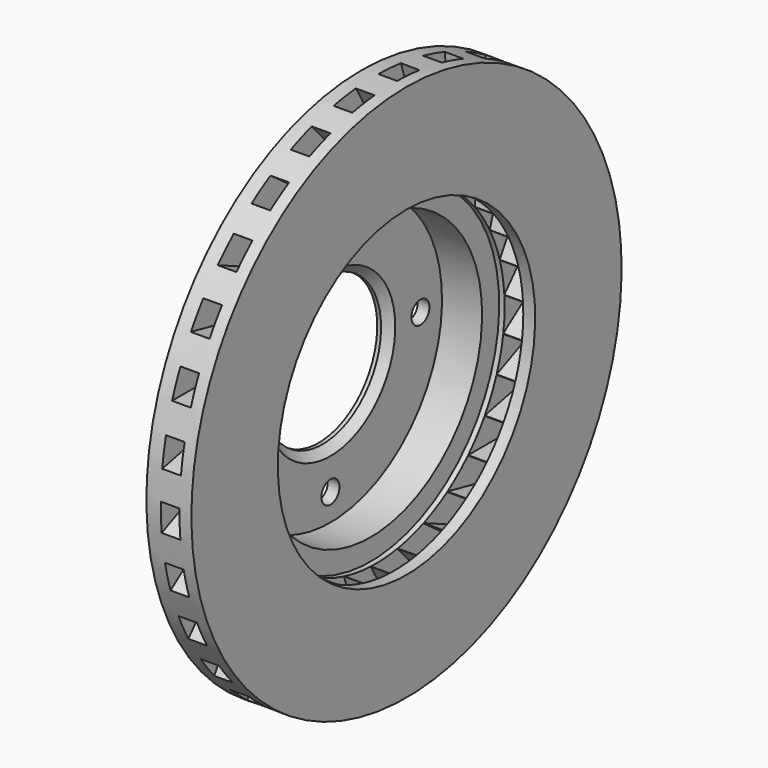
from build123d import *

# Parameters (mm, degrees)
F2_SIZE  = 3.5
F3_R     = 5
F4_DEPTH = 19.001
F6_START = -5.3
F6_DEPTH = 8.3


with BuildPart() as f1:
    # F0 (on Front) → F1 (revolve)
    with BuildSketch(Plane.XZ):
        Polygon((0, 67.4), (0, 32.5), (5.2, 32.5), (5.2, 62), (23, 62), (23, 71.5), (39, 71.5), (39, 119.5), (19, 119.5), (19, 67.4), align=None)
    revolve(axis=Axis((17.3667171039, 0, 0), (1, 0, 0)))

    # F2
    f2_edges = [f1.edges().sort_by_distance(p)[0] for p in [
        (5.2, 0, -32.5),
    ]]
    chamfer(f2_edges, length=F2_SIZE)

    # F3 (on face) → F4 (cut, through all)
    with BuildSketch(Plane(origin=(19, 0, 0), x_dir=(0, -1, 0), z_dir=(-1, 0, 0))):
        with Locations((0, 50)):
            Circle(F3_R)
        with Locations((-50, 0)):
            Circle(F3_R)
        with Locations((50, 0)):
            Circle(F3_R)
        with Locations((0, -50)):
            Circle(F3_R)
    extrude(amount=F4_DEPTH, mode=Mode.SUBTRACT)

    # F5 (on face) → F6 (cut)
    with BuildSketch(Plane.YZ.offset(39).offset(F6_START)):
        Polygon((-46.1890190468, 38.2592231035), (-37.225138396, 38.2592231035), (-37.225138396, 47.0264043319), (-50.546871926, 49.8580262065), (-217.0100994408, 49.8580262065), (-217.0100994408, 38.2592231035), (-59.8083680284, 38.2592231035), (-46.7777463385, 41.0289672464), align=None)
        Polygon((-44.3662195739, 29.6836258198), (-46.1890190468, 38.2592231035), (-59.8083680284, 38.2592231035), (-222.6339746325, 3.6495720119), (-220.2224478679, -7.6957694146), (-66.4559514556, 24.9883083628), (-54.2859423014, 30.4067455387), (-53.1342179257, 27.8199302374), align=None)
        Polygon((-59.8083680284, 38.2592231035), (-46.1890190468, 38.2592231035), (-46.7777463385, 41.0289672464), align=None)
        Polygon((-50.546871926, 49.8580262065), (-37.225138396, 47.0264043319), (-37.225138396, 49.8580262065), align=None)
        Polygon((-37.225138396, 49.8580262065), (-37.225138396, 47.0264043319), (-28.4571400442, 45.1627087495), (-26.6343405713, 53.7383060332), (-39.0762349696, 59.2777943189), (-201.9018415736, 93.8874454105), (-204.3133683382, 82.5421039839), (-50.546871926, 49.8580262065), align=None)
        Polygon((-49.5682840636, 19.8107116499), (-53.1342179257, 27.8199302374), (-66.4559514556, 24.9883083628), (-218.5276768163, -42.7183859921), (-213.8100185785, -53.3144198809), (-70.1990909132, 10.6252846394), (-59.4215820929, 18.4556031433), (-57.757196515, 16.1647729251), align=None)
        Polygon((-66.4559514556, 24.9883083628), (-53.1342179257, 27.8199302374), (-54.2859423014, 30.4067455387), align=None)
        Polygon((-26.0456132796, 56.508050176), (-26.6343405713, 53.7383060332), (-18.44542812, 50.0923673084), (-14.8794942579, 58.1015858959), (-25.8977790364, 66.1068383731), (-177.9695043971, 133.8135327281), (-182.6871626349, 123.2174988393), (-39.0762349696, 59.2777943189), align=None)
        Polygon((-39.0762349696, 59.2777943189), (-26.6343405713, 53.7383060332), (-26.0456132796, 56.508050176), align=None)
        Polygon((-52.6039766848, 9.0719743186), (-57.757196515, 16.1647729251), (-70.1990909132, 10.6252846394), (-204.8706709112, -87.2193455428), (-198.053065503, -96.6029743675), (-70.8741932453, -4.2021150085), (-61.9602136106, 5.6978623307), (-59.8559084668, 3.8031374688), align=None)
        Polygon((-70.1990909132, 10.6252846394), (-57.757196515, 16.1647729251), (-59.4215820929, 18.4556031433), align=None)
        Polygon((-13.7277698822, 60.6884011972), (-14.8794942579, 58.1015858959), (-7.6275624759, 52.8327490461), (-2.4743426457, 59.9255476526), (-11.587465888, 70.0466963747), (-146.259045886, 167.8913265569), (-153.0766512942, 158.5076977322), (-25.8977790364, 66.1068383731), align=None)
        Polygon((-25.8977790364, 66.1068383731), (-14.8794942579, 58.1015858959), (-13.7277698822, 60.6884011972), align=None)
        Polygon((-53.3406231029, -2.0632518226), (-59.8559084668, 3.8031374688), (-70.8741932453, -4.2021150085), (-182.2598336087, -127.9084011684), (-173.640243101, -135.6695153217), (-68.4517532404, -18.8458620665), (-61.7908864754, -7.3089024071), (-59.3386299981, -8.7247133444), align=None)
        Polygon((-70.8741932453, -4.2021150085), (-59.8559084668, 3.8031374688), (-61.9602136106, 5.6978623307), align=None)
        Polygon((-0.8099570678, 62.2163778708), (-2.4743426457, 59.9255476526), (3.5236642494, 53.2640861308), (10.0389496133, 59.1304754222), (3.2292751225, 70.9251776233), (-108.156365241, 194.6314637832), (-116.7759557487, 186.8703496299), (-11.587465888, 70.0466963747), align=None)
        Polygon((-11.587465888, 70.0466963747), (-2.4743426457, 59.9255476526), (-0.8099570678, 62.2163778708), align=None)
        Polygon((-51.7460283347, -13.1083039586), (-59.3386299981, -8.7247133444), (-68.4517532404, -18.8458620665), (-151.6833669978, -163.0072458903), (-141.6385088571, -168.8066474418), (-63.0376431509, -32.6659545198), (-58.9210010956, -19.9962330377), (-56.2279686601, -20.8712523186), align=None)
        Polygon((-68.4517532404, -18.8458620665), (-59.3386299981, -8.7247133444), (-61.7908864754, -7.3089024071), align=None)
        Polygon((12.1432547571, 61.0252002841), (10.0389496133, 59.1304754222), (14.5208899387, 51.3675270621), (22.113491602, 55.7511176763), (17.9048813144, 68.703888273), (-65.326732443, 212.8652720968), (-75.3715905837, 207.0658705453), (3.2292751225, 70.9251776233), align=None)
        Polygon((3.2292751225, 70.9251776233), (10.0389496133, 59.1304754222), (12.1432547571, 61.0252002841), align=None)
        Polygon((-47.8898838233, -23.580460311), (-56.2279686601, -20.8712523186), (-63.0376431509, -32.6659545198), (-114.4776093915, -190.9818917712), (-103.4464921192, -194.5661190445), (-54.8684855676, -45.0583880119), (-53.4759852337, -31.809632332), (-50.65987528, -32.1056174151), align=None)
        Polygon((-63.0376431509, -32.6659545198), (-56.2279686601, -20.8712523186), (-58.9210010956, -19.9962330377), align=None)
        Polygon((24.5657480794, 57.1669286136), (22.113491602, 55.7511176763), (24.8834830587, 47.2259605721), (33.2215678954, 49.9351685644), (31.7979582757, 63.4799093273), (-19.6420079649, 221.7958465788), (-30.6731252372, 218.2116193056), (17.9048813144, 68.703888273), align=None)
        Polygon((17.9048813144, 68.703888273), (22.113491602, 55.7511176763), (24.5657480794, 57.1669286136), align=None)
        Polygon((-41.9407215877, -33.0220373961), (-50.65987528, -32.1056174151), (-54.8684855676, -45.0583880119), (-72.2686309303, -210.609712549), (-60.7333672843, -211.8221176131), (-44.3013118768, -55.4815537337), (-45.6938122107, -42.2327980539), (-42.877702257, -41.9368129708), align=None)
        Polygon((-54.8684855676, -45.0583880119), (-50.65987528, -32.1056174151), (-53.4759852337, -31.809632332), align=None)
        Polygon((35.914600331, 50.8101878453), (33.2215678954, 49.9351685644), (34.1585485648, 41.0203929898), (42.877702257, 41.9368129708), (44.3013118768, 55.4815537337), (26.9011665141, 221.0328782709), (15.3659028681, 219.8204732068), (31.7979582757, 63.4799093273), align=None)
        Polygon((31.7979582757, 63.4799093273), (33.2215678954, 49.9351685644), (35.914600331, 50.8101878453), align=None)
        Polygon((-34.1585485648, -41.0203929898), (-42.877702257, -41.9368129708), (-44.3013118768, -55.4815537337), (-26.9011665141, -221.0328782709), (-15.3659028681, -219.8204732068), (-31.7979582757, -63.4799093273), (-35.914600331, -50.8101878453), (-33.2215678954, -49.9351685644), align=None)
        Polygon((-44.3013118768, -55.4815537337), (-42.877702257, -41.9368129708), (-45.6938122107, -42.2327980539), align=None)
        Polygon((45.6938122107, 42.2327980539), (42.877702257, 41.9368129708), (41.9407215877, 33.0220373961), (50.65987528, 32.1056174151), (54.8684855676, 45.0583880119), (72.2686309303, 210.609712549), (60.7333672843, 211.8221176131), (44.3013118768, 55.4815537337), align=None)
        Polygon((44.3013118768, 55.4815537337), (42.877702257, 41.9368129708), (45.6938122107, 42.2327980539), align=None)
        Polygon((-24.8834830587, -47.2259605721), (-33.2215678954, -49.9351685644), (-31.7979582757, -63.4799093273), (19.6420079649, -221.7958465788), (30.6731252372, -218.2116193056), (-17.9048813144, -68.703888273), (-24.5657480794, -57.1669286136), (-22.113491602, -55.7511176763), align=None)
        Polygon((-31.7979582757, -63.4799093273), (-33.2215678954, -49.9351685644), (-35.914600331, -50.8101878453), align=None)
        Polygon((53.4759852337, 31.809632332), (50.65987528, 32.1056174151), (47.8898838233, 23.580460311), (56.2279686601, 20.8712523186), (63.0376431509, 32.6659545198), (114.4776093915, 190.9818917712), (103.4464921192, 194.5661190445), (54.8684855676, 45.0583880119), align=None)
        Polygon((54.8684855676, 45.0583880119), (50.65987528, 32.1056174151), (53.4759852337, 31.809632332), align=None)
        Polygon((-14.5208899387, -51.3675270621), (-22.113491602, -55.7511176763), (-17.9048813144, -68.703888273), (65.326732443, -212.8652720968), (75.3715905837, -207.0658705453), (-3.2292751225, -70.9251776233), (-12.1432547571, -61.0252002841), (-10.0389496133, -59.1304754222), align=None)
        Polygon((-17.9048813144, -68.703888273), (-22.113491602, -55.7511176763), (-24.5657480794, -57.1669286136), align=None)
        Polygon((58.9210010956, 19.9962330377), (56.2279686601, 20.8712523186), (51.7460283347, 13.1083039586), (59.3386299981, 8.7247133444), (68.4517532404, 18.8458620665), (151.6833669978, 163.0072458903), (141.6385088571, 168.8066474418), (63.0376431509, 32.6659545198), align=None)
        Polygon((63.0376431509, 32.6659545198), (56.2279686601, 20.8712523186), (58.9210010956, 19.9962330377), align=None)
        Polygon((-3.5236642494, -53.2640861308), (-10.0389496133, -59.1304754222), (-3.2292751225, -70.9251776233), (108.156365241, -194.6314637832), (116.7759557487, -186.8703496299), (11.587465888, -70.0466963747), (0.8099570678, -62.2163778708), (2.4743426457, -59.9255476526), align=None)
        Polygon((-3.2292751225, -70.9251776233), (-10.0389496133, -59.1304754222), (-12.1432547571, -61.0252002841), align=None)
        Polygon((61.7908864754, 7.3089024071), (59.3386299981, 8.7247133444), (53.3406231029, 2.0632518226), (59.8559084668, -3.8031374688), (70.8741932453, 4.2021150085), (182.2598336087, 127.9084011684), (173.640243101, 135.6695153217), (68.4517532404, 18.8458620665), align=None)
        Polygon((68.4517532404, 18.8458620665), (59.3386299981, 8.7247133444), (61.7908864754, 7.3089024071), align=None)
        Polygon((7.6275624759, -52.8327490461), (2.4743426457, -59.9255476526), (11.587465888, -70.0466963747), (146.259045886, -167.8913265569), (153.0766512942, -158.5076977322), (25.8977790364, -66.1068383731), (13.7277698822, -60.6884011972), (14.8794942579, -58.1015858959), align=None)
        Polygon((11.587465888, -70.0466963747), (2.4743426457, -59.9255476526), (0.8099570678, -62.2163778708), align=None)
        Polygon((61.9602136106, -5.6978623307), (59.8559084668, -3.8031374688), (52.6039766848, -9.0719743186), (57.757196515, -16.1647729251), (70.1990909132, -10.6252846394), (204.8706709112, 87.2193455428), (198.053065503, 96.6029743675), (70.8741932453, 4.2021150085), align=None)
        Polygon((70.8741932453, 4.2021150085), (59.8559084668, -3.8031374688), (61.9602136106, -5.6978623307), align=None)
        Polygon((18.44542812, -50.0923673084), (14.8794942579, -58.1015858959), (25.8977790364, -66.1068383731), (177.9695043971, -133.8135327281), (182.6871626349, -123.2174988393), (39.0762349696, -59.2777943189), (26.0456132796, -56.508050176), (26.6343405713, -53.7383060332), align=None)
        Polygon((25.8977790364, -66.1068383731), (14.8794942579, -58.1015858959), (13.7277698822, -60.6884011972), align=None)
        Polygon((59.4215820929, -18.4556031433), (57.757196515, -16.1647729251), (49.5682840636, -19.8107116499), (53.1342179257, -27.8199302374), (66.4559514556, -24.9883083628), (218.5276768163, 42.7183859921), (213.8100185785, 53.3144198809), (70.1990909132, -10.6252846394), align=None)
        Polygon((70.1990909132, -10.6252846394), (57.757196515, -16.1647729251), (59.4215820929, -18.4556031433), align=None)
        Polygon((28.4571400442, -45.1627087495), (26.6343405713, -53.7383060332), (39.0762349696, -59.2777943189), (201.9018415736, -93.8874454105), (204.3133683382, -82.5421039839), (50.546871926, -49.8580262065), (37.225138396, -49.8580262065), (37.225138396, -47.0264043319), align=None)
        Polygon((39.0762349696, -59.2777943189), (26.6343405713, -53.7383060332), (26.0456132796, -56.508050176), align=None)
        Polygon((54.2859423014, -30.4067455387), (53.1342179257, -27.8199302374), (44.3662195739, -29.6836258198), (46.1890190468, -38.2592231035), (59.8083680284, -38.2592231035), (222.6339746325, -3.6495720119), (220.2224478679, 7.6957694146), (66.4559514556, -24.9883083628), align=None)
        Polygon((66.4559514556, -24.9883083628), (53.1342179257, -27.8199302374), (54.2859423014, -30.4067455387), align=None)
        Polygon((37.225138396, -38.2592231035), (37.225138396, -47.0264043319), (50.546871926, -49.8580262065), (217.0100994408, -49.8580262065), (217.0100994408, -38.2592231035), (59.8083680284, -38.2592231035), (46.7777463385, -41.0289672464), (46.1890190468, -38.2592231035), align=None)
        Polygon((50.546871926, -49.8580262065), (37.225138396, -47.0264043319), (37.225138396, -49.8580262065), align=None)
        Polygon((59.8083680284, -38.2592231035), (46.1890190468, -38.2592231035), (46.7777463385, -41.0289672464), align=None)
    extrude(amount=-F6_DEPTH, mode=Mode.SUBTRACT)


solid = f1.part
